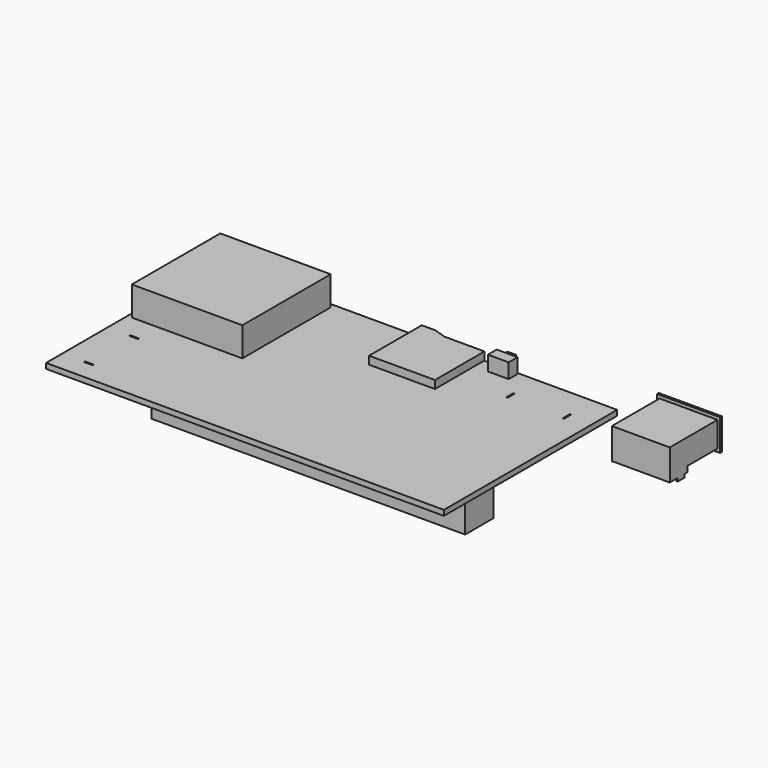
from build123d import *

# Parameters (mm, degrees)
F0_W           = 2
F0_H           = 0.3
F0_W_2         = 25
F0_H_2         = 25
F0_W_3         = 0.3
F0_H_3         = 2
F0_W_4         = 14.9
F0_H_4         = 13.9
F0_W_5         = 1.2
F0_H_5         = 4
F0_W_6         = 1.9
F1_DEPTH       = 1.2
F2_DEPTH       = 6.6
F3_DEPTH       = 1.8
F4_W           = 2.9
F4_H           = 0.8457996882
F4_W_2         = 8.6
F5_DEPTH       = 10
F5_DEPTH_BACK  = 3
F6_DEPTH       = 10.7
F7_DEPTH       = 7
F8_W           = 13.1
F8_H           = 8.5
F9_DEPTH       = 5.72
F10_DEPTH      = 6.42
F10_DEPTH_BACK = 0.7
F8_W_2         = 0.3
F8_H_2         = 2
F11_DEPTH      = 5.72
F11_DEPTH_BACK = 1.27
F12_DEPTH      = 2
F13_W          = 12.5
F13_H          = 5.12
F13_W_2        = 10.5
F13_H_2        = 1.8
F14_DEPTH      = 9
F15_DEPTH      = 3.35
F16_START      = 1.95
F0_H_6         = 1
F16_DEPTH      = 0.9


with BuildPart() as f1:
    # F0 (on Top) → F1 (new body)
    with BuildSketch(Plane.XY):
        Polygon((45, 0), (0, 0), (0, -49), (90, -49), (90, 0), (66.3, 0), (66.3, -0.3), (67.7, -0.3), (67.7, -2.8), (63, -2.8), (63, -0.3), (64.4, -0.3), (64.4, 0), (59.9, 0), (59.9, -13.9), (45, -13.9), align=None)
        with Locations((6, -44.4)):
            Rectangle(F0_W, F0_H, mode=Mode.SUBTRACT)
        with Locations((6, -31.6)):
            Rectangle(F0_W, F0_H, mode=Mode.SUBTRACT)
        Polygon((86, -30), (86, -38), (15, -38), (15, -30), (40.8, -30), (42, -30), align=None, mode=Mode.SUBTRACT)
        with Locations((13.5, -13.5)):
            Rectangle(F0_W_2, F0_H_2, mode=Mode.SUBTRACT)
        with Locations((71.85, -7.5)):
            Rectangle(F0_W_3, F0_H_3, mode=Mode.SUBTRACT)
        with Locations((84.65, -7.5)):
            Rectangle(F0_W_3, F0_H_3, mode=Mode.SUBTRACT)
        Polygon((45, 0), (0, 0), (0, -49), (90, -49), (90, 0), (66.3, 0), (66.3, -0.3), (67.7, -0.3), (67.7, -2.8), (63, -2.8), (63, -0.3), (64.4, -0.3), (64.4, 0), (59.9, 0), (59.9, -13.9), (45, -13.9), align=None)
        with Locations((6, -44.4)):
            Rectangle(F0_W, F0_H, mode=Mode.SUBTRACT)
        with Locations((6, -31.6)):
            Rectangle(F0_W, F0_H, mode=Mode.SUBTRACT)
        Polygon((86, -30), (86, -38), (15, -38), (15, -30), (40.8, -30), (42, -30), align=None, mode=Mode.SUBTRACT)
        with Locations((13.5, -13.5)):
            Rectangle(F0_W_2, F0_H_2, mode=Mode.SUBTRACT)
        with Locations((71.85, -7.5)):
            Rectangle(F0_W_3, F0_H_3, mode=Mode.SUBTRACT)
        with Locations((84.65, -7.5)):
            Rectangle(F0_W_3, F0_H_3, mode=Mode.SUBTRACT)
        with Locations((13.5, -13.5)):
            Rectangle(F0_W_2, F0_H_2)
        with Locations((52.45, -6.95)):
            Rectangle(F0_W_4, F0_H_4)
        Polygon((15, -38), (86, -38), (86, -30), (42, -30), (42, -34), (40.8, -34), (40.8, -30), (15, -30), align=None)
        with Locations((41.4, -32)):
            Rectangle(F0_W_5, F0_H_5)
        Polygon((66.3, -0.3), (64.4, -0.3), (63, -0.3), (63, -2.8), (67.7, -2.8), (67.7, -0.3), align=None)
        with Locations((65.35, -0.15)):
            Rectangle(F0_W_6, F0_H)
    extrude(amount=-F1_DEPTH)

    # F0 (on Top) → F2 (join)
    with BuildSketch(Plane.XY):
        with Locations((13.5, -13.5)):
            Rectangle(F0_W_2, F0_H_2)
    extrude(amount=F2_DEPTH)

    # F0 (on Top) → F3 (join)
    with BuildSketch(Plane.XY):
        with Locations((52.45, -6.95)):
            Rectangle(F0_W_4, F0_H_4)
        Polygon((45, 1), (45, 0), (59.9, 0), (59.9, 0.1), (50.9, 0.1), (48, 1), align=None)
    extrude(amount=F3_DEPTH)

    # F4 (on face) → F5 (cut, two sides)
    with BuildSketch(Plane(origin=(0, 0.1, 0), x_dir=(-1, 0, 0), z_dir=(0, 1, 0))) as f5_sk:
        with Locations((-49.45, 1.0228998441)):
            Rectangle(F4_W, F4_H)
        with Locations((-55.2, 1.0228998441)):
            Rectangle(F4_W_2, F4_H)
    extrude(amount=-F5_DEPTH, mode=Mode.SUBTRACT)
    extrude(f5_sk.sketch, amount=F5_DEPTH_BACK, mode=Mode.SUBTRACT)

    # F0 (on Top) → F6 (join)
    with BuildSketch(Plane.XY):
        Polygon((15, -38), (86, -38), (86, -30), (42, -30), (42, -34), (40.8, -34), (40.8, -30), (15, -30), align=None)
    extrude(amount=-F6_DEPTH)

    # F0 (on Top) → F7 (join)
    with BuildSketch(Plane.XY):
        with Locations((41.4, -32)):
            Rectangle(F0_W_5, F0_H_5)
    extrude(amount=-F7_DEPTH)

    # F0 (on Top) → F15 (join)
    with BuildSketch(Plane.XY):
        Polygon((66.3, -0.3), (64.4, -0.3), (63, -0.3), (63, -2.8), (67.7, -2.8), (67.7, -0.3), align=None)
    extrude(amount=F15_DEPTH)

    # F0 (on Top) → F16 (join)
    with BuildSketch(Plane.XY.offset(F16_START)):
        with Locations((65.35, 0.5)):
            Rectangle(F0_W_6, F0_H_6)
        with Locations((65.35, -0.15)):
            Rectangle(F0_W_6, F0_H)
    extrude(amount=F16_DEPTH)


with BuildPart() as f9:
    # F8 (on Top) → F9 (new body)
    with BuildSketch(Plane.XY):
        with Locations((106.55, -4.75)):
            Rectangle(F8_W, F8_H)
    extrude(amount=F9_DEPTH)

    # F8 (on Top) → F10 (join, two sides)
    with BuildSketch(Plane.XY) as f10_sk:
        Polygon((113.7, 0), (99.4, 0), (99.4, -0.5), (100, -0.5), (113.1, -0.5), (113.7, -0.5), align=None)
    extrude(amount=F10_DEPTH)
    extrude(f10_sk.sketch, amount=-F10_DEPTH_BACK)

    # F8 (on Top) → F11 (join, two sides)
    with BuildSketch(Plane.XY) as f11_sk:
        Polygon((113.1, -9), (100, -9), (100, -9.78), (100.3, -9.78), (100.3, -11.78), (100, -11.78), (100, -14), (113.1, -14), (113.1, -11.78), (112.8, -11.78), (112.8, -9.78), (113.1, -9.78), align=None)
        with Locations((100.15, -10.78)):
            Rectangle(F8_W_2, F8_H_2)
        with Locations((112.95, -10.78)):
            Rectangle(F8_W_2, F8_H_2)
    extrude(amount=F11_DEPTH)
    extrude(f11_sk.sketch, amount=-F11_DEPTH_BACK)

    # F8 (on Top) → F12 (join)
    with BuildSketch(Plane.XY):
        with Locations((112.95, -10.78)):
            Rectangle(F8_W_2, F8_H_2)
        with Locations((100.15, -10.78)):
            Rectangle(F8_W_2, F8_H_2)
    extrude(amount=-F12_DEPTH)

    # F13 (on face) → F14 (cut)
    with BuildSketch(Plane(origin=(0, 0, 0), x_dir=(-1, 0, 0), z_dir=(0, 1, 0))):
        with Locations((-106.55, 2.86)):
            Rectangle(F13_W, F13_H)
        with Locations((-106.55, 3.76)):
            Rectangle(F13_W_2, F13_H_2, mode=Mode.SUBTRACT)
    extrude(amount=-F14_DEPTH, mode=Mode.SUBTRACT)


solid = Compound([f1.part, f9.part])
